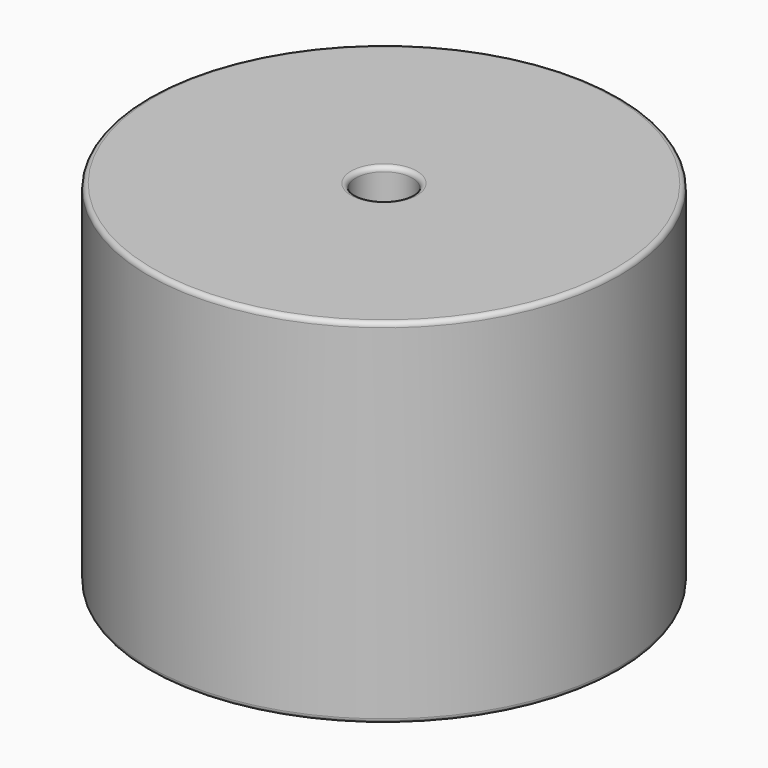
from build123d import *

# Parameters (mm, degrees)
SKETCH001_R       = 0.65
PAD001_DEPTH      = 19.05
PAD001_DEPTH_BACK = 3.5
SKETCH_R          = 25.4
SKETCH_R_2        = 3.05
PAD_DEPTH         = 38.1
FILLET_R          = 0.5


with BuildPart() as pad001:
    # Sketch001 → Pad001 (new body, two sides)
    with BuildSketch(Plane.XY.offset(0.5)) as pad001_sk:
        Circle(SKETCH001_R)
        with Locations((33.27, 0)):
            Circle(SKETCH001_R)
    extrude(amount=PAD001_DEPTH)
    extrude(pad001_sk.sketch, amount=-PAD001_DEPTH_BACK)


with BuildPart() as obj1:
    # Sketch → Pad (new body)
    with BuildSketch(Plane.XY.offset(0.1)):
        with Locations((16.635, 0)):
            Circle(SKETCH_R)
        with Locations((16.635, 0)):
            Circle(SKETCH_R_2, mode=Mode.SUBTRACT)
    extrude(amount=PAD_DEPTH)

    # Fillet
    fillet_edges = [obj1.edges().sort_by_distance(p)[0] for p in [
        (13.585, 0, 38.2),
        (-8.765, 0, 38.2),
        (-8.765, 0, 0.1),
    ]]
    fillet(fillet_edges, radius=FILLET_R)

    # obj1: union Pad001
    add(pad001.part)


solid = obj1.part
